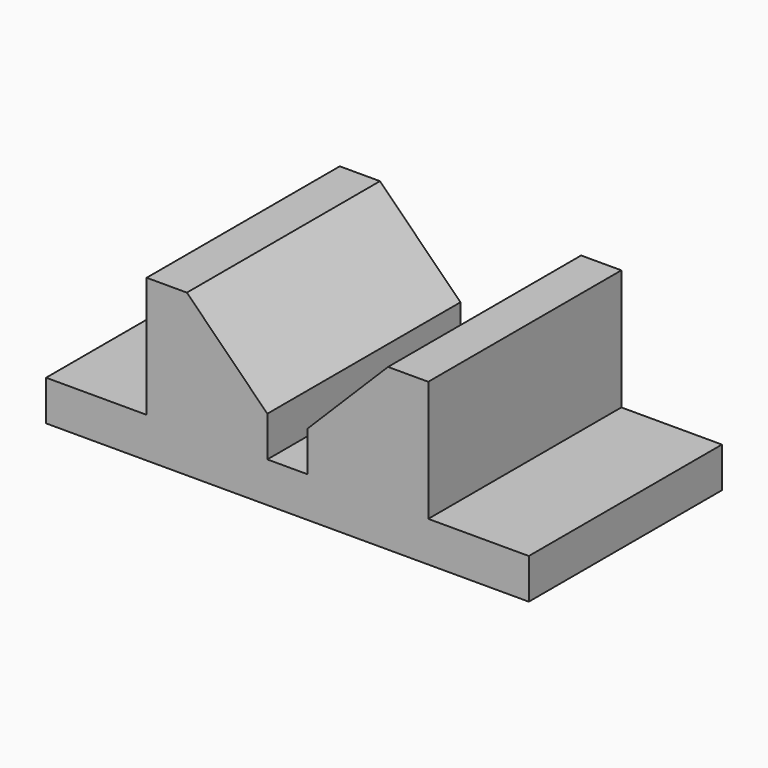
from build123d import *

# Parameters (mm, degrees)
F1_DEPTH = 38.1
F2_DEPTH = 38.1
F3_W     = 12.7
F3_H     = 12.7
F4_DEPTH = 76.2


with BuildPart() as f1:
    # F0 (on Front) → F1 (new body)
    with BuildSketch(Plane.XZ):
        Polygon((-63.089579, 0), (-63.089579, -12.7), (89.310421, -12.7), (89.310421, 0), (57.560421, 0), (57.560421, 38.1), (44.860421, 38.1), (-18.639579, 38.1), (-31.339579, 38.1), (-31.339579, 19.05), (-31.339579, 0), align=None)
    extrude(amount=F1_DEPTH)

    # F1_face (on face) → F2 (join)
    with BuildSketch(Plane(origin=(13.110421, 0, 9.813636), x_dir=(1, 0, 0), z_dir=(0, 1, 0))):
        Polygon((-76.2, 22.513636), (-76.2, 9.813636), (-44.45, 9.813636), (-44.45, -28.286364), (44.45, -28.286364), (44.45, 9.813636), (76.2, 9.813636), (76.2, 22.513636), align=None)
        Polygon((-76.2, 9.813636), (-76.2, 22.513636), (76.2, 22.513636), (76.2, 9.813636), (44.45, 9.813636), (44.45, -28.286364), (-44.45, -28.286364), (-44.45, 9.813636), align=None)
    extrude(amount=F2_DEPTH)

    # F3 (on face) → F4 (cut)
    with BuildSketch(Plane.XZ.offset(38.1)):
        Polygon((44.860421, 38.1), (-18.639579, 38.1), (6.760421, 12.7), (19.460421, 12.7), align=None)
        with Locations((13.110421, 6.35)):
            Rectangle(F3_W, F3_H)
    extrude(amount=-F4_DEPTH, mode=Mode.SUBTRACT)


solid = f1.part
